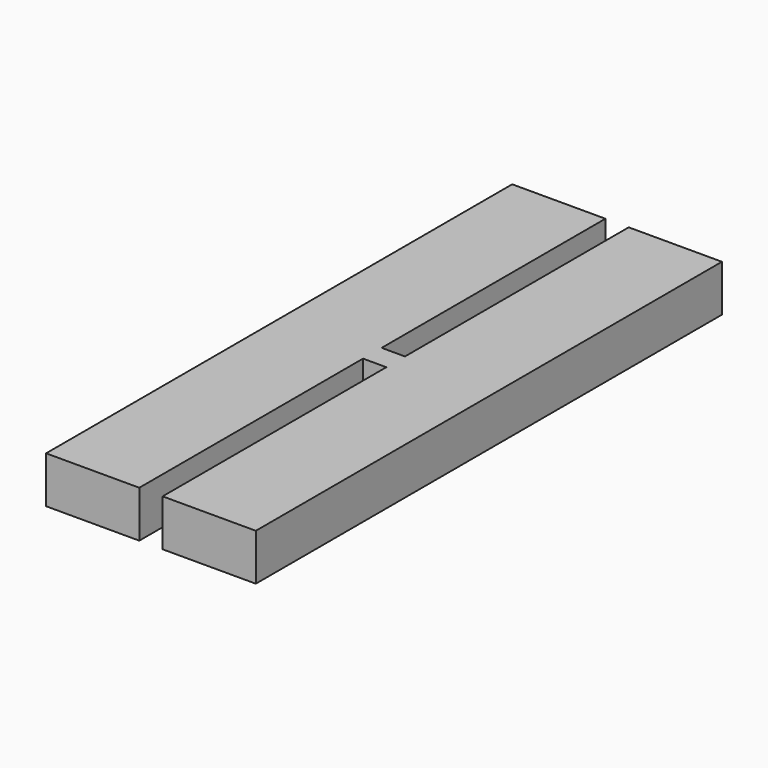
from build123d import *

# Parameters (mm, degrees)
F0_W     = 0.25
F0_H     = 0.2
F1_DEPTH = 0.125
F2_W     = 0.25
F2_H     = 0.5
F3_DEPTH = 1
F4_W     = 0.25
F4_H     = 0.5
F5_DEPTH = 1
F6_W     = 1
F6_H     = 0.5
F7_DEPTH = 3
F8_W     = 1
F8_H     = 0.5
F9_DEPTH = 3


with BuildPart() as f1:
    # F0 (on Right) → F1 (new body, symmetric)
    with BuildSketch(Plane.YZ):
        with Locations((0.125, 0.1)):
            Rectangle(F0_W, F0_H)
    extrude(amount=F1_DEPTH, both=True)

    # F2 (on face) → F3 (join)
    with BuildSketch(Plane.YZ.offset(0.125)):
        with Locations((0.125, -0.05)):
            Rectangle(F2_W, F2_H)
    extrude(amount=F3_DEPTH)

    # F4 (on face) → F5 (join)
    with BuildSketch(Plane(origin=(-0.125, 0, 0), x_dir=(0, -1, 0), z_dir=(-1, 0, 0))):
        with Locations((-0.125, -0.05)):
            Rectangle(F4_W, F4_H)
    extrude(amount=F5_DEPTH)

    # F6 (on face) → F7 (join)
    with BuildSketch(Plane.XZ):
        with Locations((-0.625, -0.05)):
            Rectangle(F6_W, F6_H)
        with Locations((0.625, -0.05)):
            Rectangle(F6_W, F6_H)
    extrude(amount=F7_DEPTH)

    # F8 (on face) → F9 (join)
    with BuildSketch(Plane(origin=(0, 0.25, 0), x_dir=(-1, 0, 0), z_dir=(0, 1, 0))):
        with Locations((-0.625, -0.05)):
            Rectangle(F8_W, F8_H)
        with Locations((0.625, -0.05)):
            Rectangle(F8_W, F8_H)
    extrude(amount=F9_DEPTH)


solid = f1.part
